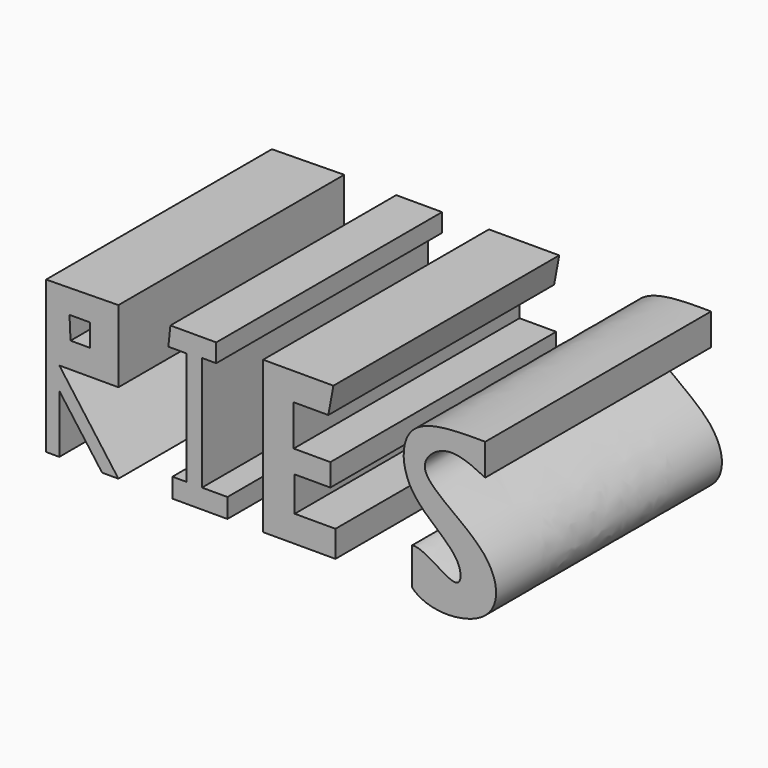
from build123d import *

# Parameters (mm, degrees)
F1_DEPTH = 68.834


with BuildPart() as f1:
    # F0 (on Front) → F1 (new body)
    with BuildSketch(Plane.XZ):
        Polygon((-26.5871733427, 50.1926094294), (-44.229131192, 49.9441288412), (-44.229131192, 12.9208695143), (-40.9989133477, 12.9208695143), (-40.9989133477, 27.0841307938), (-30.5628273636, 12.9208695143), (-26.5871733427, 12.9208695143), (-40.9989133477, 32.5506515801), (-26.5871733427, 32.5506515801), align=None)
        Polygon((-38.2656529546, 38.7626066804), (-38.5141298175, 44.229131192), (-33.5445664823, 44.229131192), (-33.5445664823, 38.7626066804), align=None, mode=Mode.SUBTRACT)
    extrude(amount=F1_DEPTH)


with BuildPart() as f1b:
    # F0 (on Front) → F1, piece 2 (new body)
    with BuildSketch(Plane.XZ):
        Polygon((-2.7332613245, 49.9441288412), (-13.9147825539, 49.9441288412), (-14.4117390737, 45.2230423689), (-9.9391303957, 45.2230423689), (-9.9391303957, 17.6419559866), (-13.4178260341, 17.6419559866), (-13.4178260341, 12.9208695143), (0, 12.9208695143), (0, 17.6419559866), (-6.2119569629, 17.6419559866), (-6.2119569629, 45.4715192318), (-2.7332613245, 45.4715192318), align=None)
    extrude(amount=F1_DEPTH)


with BuildPart() as f1c:
    # F0 (on Front) → F1, piece 3 (new body)
    with BuildSketch(Plane.XZ):
        Polygon((24.5993472636, 43.2352162898), (25.8417408913, 49.9441288412), (8.6967404932, 49.9441288412), (8.6967404932, 12.9208695143), (26.3386946172, 12.9208695143), (26.3386946172, 19.3813033402), (16.3995642215, 19.3813033402), (16.3995642215, 27.8295669705), (25.0963065773, 27.8295669705), (25.0963065773, 33.2960896194), (16.1510854959, 33.2960896194), (16.1510854959, 43.2352162898), align=None)
    extrude(amount=F1_DEPTH)


with BuildPart() as f1d:
    # F0 (on Front) → F1, piece 4 (new body)
    with BuildSketch(Plane.XZ):
        with BuildLine():
            Line((62.8650039434, 42.2413013875), (62.8650039434, 49.9441288412))
            add(Edge.make_bspline(
                [(44.9745617807, 21.8660868704), (47.7595126212, 22.576579189), (56.8852581861, 13.8517422038), (57.429882099, 24.1445943607), (42.4718824727, 31.7959794236), (42.1349283137, 50.0632854785), (55.5498480038, 49.9861764149), (62.8650039434, 49.9441288412)],
                knots=[0.5488532286, 0.5488532286, 0.5488532286, 0.5488532286, 0.637110767, 0.6921224951, 0.7969761942, 0.8892911152, 1, 1, 1, 1], degree=3))
            Line((44.9745617807, 21.8660868704), (44.9745617807, 12.9208695143))
            add(Edge.make_bspline(
                [(62.8650039434, 42.2413013875), (59.4925143477, 43.8773539321), (53.2882913115, 46.8871289358), (43.411403042, 37.7314550219), (66.0307612196, 27.5516009199), (66.7473192465, 9.4474886008), (48.7988357113, 8.682264401), (44.9745617807, 12.9208695143)],
                knots=[0, 0, 0, 0, 0.0830040397, 0.1526989367, 0.269286471, 0.3616013953, 0.47129318, 0.47129318, 0.47129318, 0.47129318], degree=3))
        make_face()
    extrude(amount=F1_DEPTH)


solid = Compound([f1.part, f1b.part, f1c.part, f1d.part])
